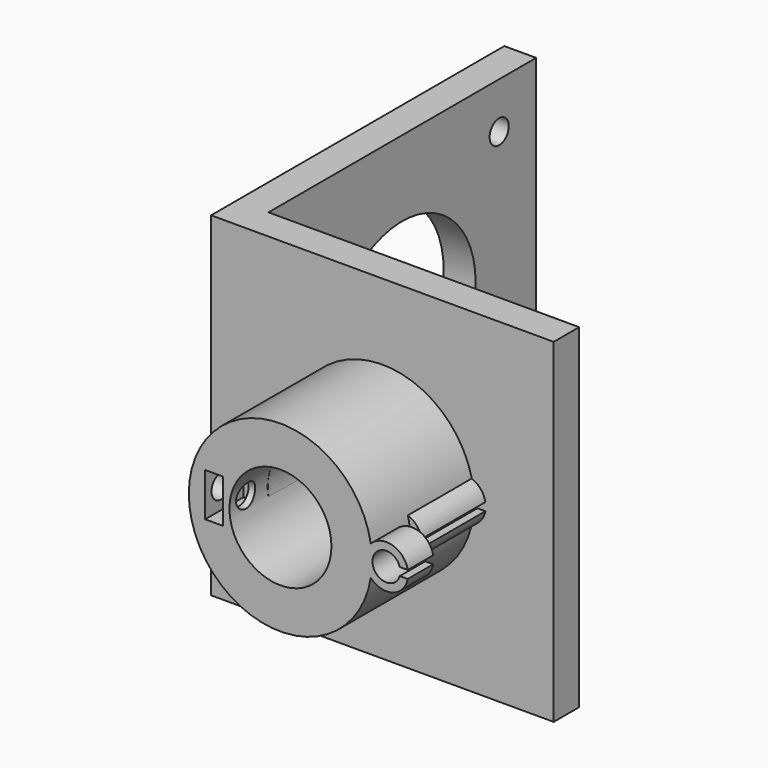
from build123d import *

# Parameters (mm, degrees)
SKETCH004_R     = 6.4
PAD003_DEPTH    = 10
CYLINDER_R      = 1.5
CYLINDER_DEPTH  = 10
PAD_DEPTH       = 42
SKETCH001_R     = 1.5
SKETCH001_R_2   = 11.5
POCKET_DEPTH    = 4.001
SKETCH002_R     = 11.5
SKETCH002_R_2   = 6.4
PAD001_DEPTH    = 16
PAD002_DEPTH    = 4
SKETCH005_W     = 2.25
SKETCH005_H     = 5.45
POCKET001_DEPTH = 6


with BuildPart() as body001:
    # Sketch004 → Pad003 (new body)
    with BuildSketch(Plane.XZ):
        with BuildLine():
            ThreePointArc((-13.212395, 22.888281), (-30, 21), (-13.212395, 19.111719))
            ThreePointArc((-13.212395, 19.111719), (-10.469286, 18.39096), (-8.572949, 20.5))
            Line((-9.572949, 20.5), (-8.572949, 20.5))
            ThreePointArc((-9.572949, 21.5), (-13, 21), (-9.572949, 20.5))
            Line((-9.572949, 21.5), (-8.572949, 21.5))
            ThreePointArc((-8.572949, 21.5), (-10.469286, 23.60904), (-13.212395, 22.888281))
        make_face()
        with Locations((-21.5, 21)):
            Circle(SKETCH004_R, mode=Mode.SUBTRACT)
    extrude(amount=PAD003_DEPTH)


with BuildPart() as cylinder:
    # Cylinder → Cylinder (new body)
    with BuildSketch(Plane(origin=(-35, -13.5, 21.5), x_dir=(0, 0, -1), z_dir=(1, 0, 0))):
        Circle(CYLINDER_R)
    extrude(amount=CYLINDER_DEPTH)


with BuildPart() as cut:
    # Sketch → Pad (new body)
    with BuildSketch(Plane.XY):
        Polygon((0, 0), (-43, 0), (-43, 46), (-39, 46), (-39, 4), (0, 4), align=None)
    extrude(amount=PAD_DEPTH)

    # Sketch001 (on Face4 of Pad) → Pocket (cut, through all)
    with BuildSketch(Plane.YZ.offset(-39)):
        with Locations((9.2, 36.2)):
            Circle(SKETCH001_R)
        with Locations((40.2, 36.2)):
            Circle(SKETCH001_R)
        with Locations((9.2, 5.2)):
            Circle(SKETCH001_R)
        with Locations((40.2, 5.2)):
            Circle(SKETCH001_R)
        with Locations((25, 21)):
            Circle(SKETCH001_R_2)
    extrude(amount=-POCKET_DEPTH, mode=Mode.SUBTRACT)

    # Sketch002 (on Face1 of Pocket) → Pad001 (join)
    with BuildSketch(Plane.XZ):
        with Locations((-21.5, 21)):
            Circle(SKETCH002_R)
        with Locations((-21.5, 21)):
            Circle(SKETCH002_R_2, mode=Mode.SUBTRACT)
    extrude(amount=PAD001_DEPTH)

    # Sketch003 (on Face15 of Pad001) → Pad002 (join)
    with BuildSketch(Plane.XZ.offset(16)):
        with BuildLine():
            ThreePointArc((-6.522949, 21.5), (-9.95, 21), (-6.522949, 20.5))
            Line((-6.522949, 20.5), (-5.522949, 20.5))
            ThreePointArc((-5.522949, 21.5), (-10.923344, 21), (-5.522949, 20.5))
            Line((-6.522949, 21.5), (-5.522949, 21.5))
        make_face()
    extrude(amount=-PAD002_DEPTH)

    # Sketch005 (on Face17 of Pad002) → Pocket001 (cut)
    with BuildSketch(Plane.XZ.offset(16)):
        with Locations((-29.825, 21.555)):
            Rectangle(SKETCH005_W, SKETCH005_H)
    extrude(amount=-POCKET001_DEPTH, mode=Mode.SUBTRACT)

    # Cut: cut Cylinder
    add(cylinder.part, mode=Mode.SUBTRACT)


solid = Compound([body001.part, cut.part])
